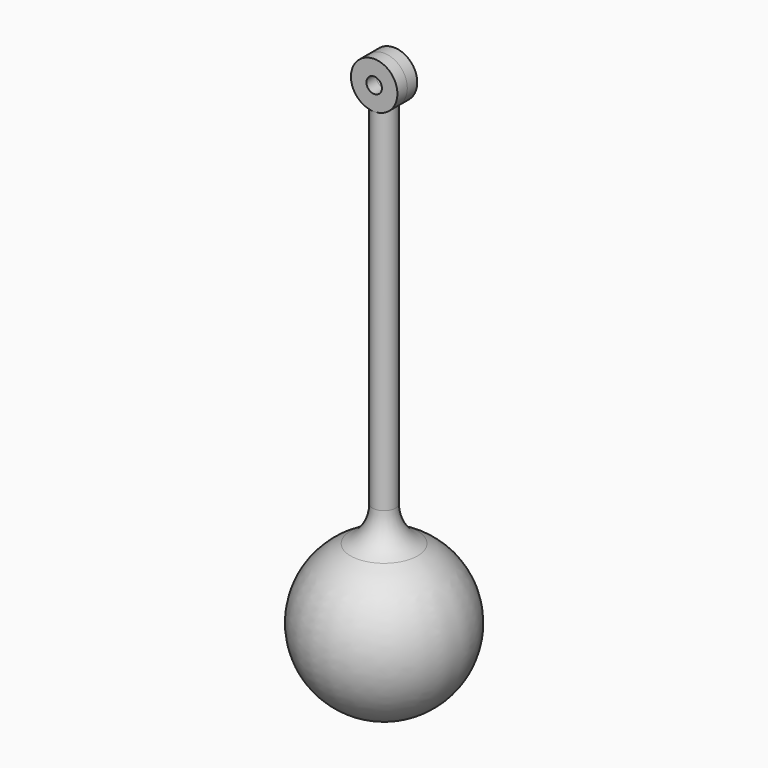
from build123d import *

# Parameters (mm, degrees)
F2_R          = 3.81
F2_R_2        = 1.27
F3_DEPTH      = 2.032
F3_DEPTH_BACK = 2.032


with BuildPart() as f1:
    # F0 (on Front) → F1 (revolve)
    with BuildSketch(Plane.XZ):
        with BuildLine():
            Line((0, 0), (0, -88.756312))
            ThreePointArc((0, -88.756312), (12.382447, -78.878546), (5.503333, -64.610644))
            ThreePointArc((5.503333, -64.610644), (2.879333, -62.267855), (1.905, -58.88781))
            Line((1.905, -58.88781), (1.905, 0))
            Line((1.905, 0), (0, 0))
        make_face()
    revolve(axis=Axis((0, 0, -44.378156), (0, 0, 1)))

    # F2 (on Front) → F3 (join, two sides)
    with BuildSketch(Plane.XZ) as f3_sk:
        with Locations((0, 2.379173)):
            Circle(F2_R)
        with Locations((0, 2.379173)):
            Circle(F2_R_2, mode=Mode.SUBTRACT)
    extrude(amount=F3_DEPTH)
    extrude(f3_sk.sketch, amount=-F3_DEPTH_BACK)


solid = f1.part
